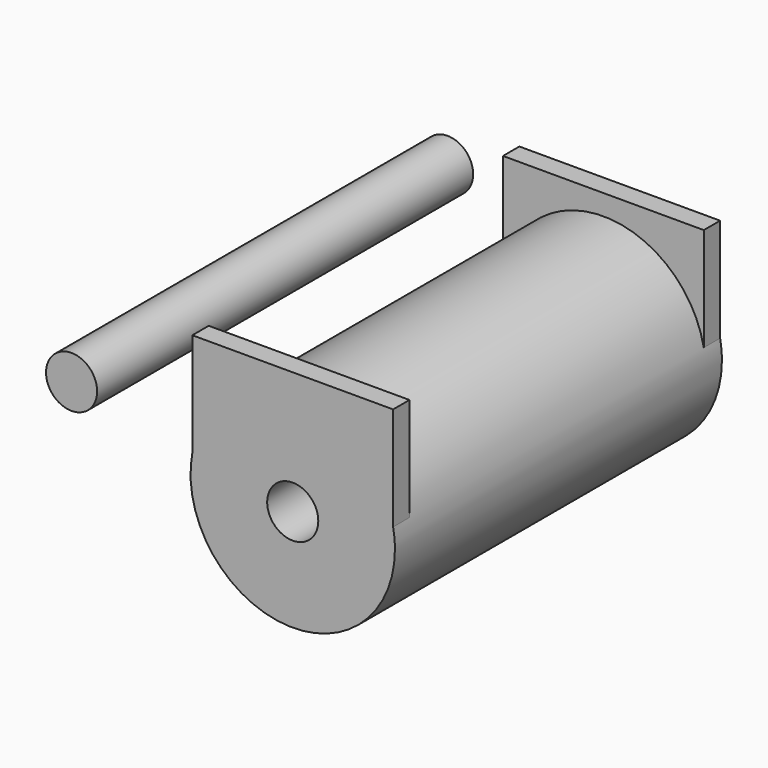
from build123d import *

# Parameters (mm, degrees)
F0_R     = 12.5
F1_DEPTH = 230
F0_R_2   = 50
F2_DEPTH = 200
F4_W     = 49.115509
F4_H     = 10
F5_DEPTH = 55
F6_DEPTH = 264


with BuildPart() as f1:
    # F0 (on Front) → F1 (new body)
    with BuildSketch(Plane.XZ):
        with Locations((-84.211826, 40.676731)):
            Circle(F0_R)
    extrude(amount=F1_DEPTH)


with BuildPart() as f2:
    # F0 (on Front) → F2 (new body)
    with BuildSketch(Plane.XZ):
        Circle(F0_R_2)
        Circle(F0_R, mode=Mode.SUBTRACT)
    extrude(amount=F2_DEPTH)

    # F4 (on offset) → F5 (join)
    with BuildSketch(Plane.XY.offset(60)):
        with Locations((24.557754, -5)):
            Rectangle(F4_W, F4_H)
        with Locations((24.557754, -195)):
            Rectangle(F4_W, F4_H)
        with Locations((-24.557754, -195)):
            Rectangle(F4_W, F4_H)
        with Locations((-24.557754, -5)):
            Rectangle(F4_W, F4_H)
    extrude(amount=-F5_DEPTH)

    # F0 (on Front) → F6 (cut)
    with BuildSketch(Plane.XZ):
        Circle(F0_R)
    extrude(amount=F6_DEPTH, mode=Mode.SUBTRACT)


solid = Compound([f1.part, f2.part])
